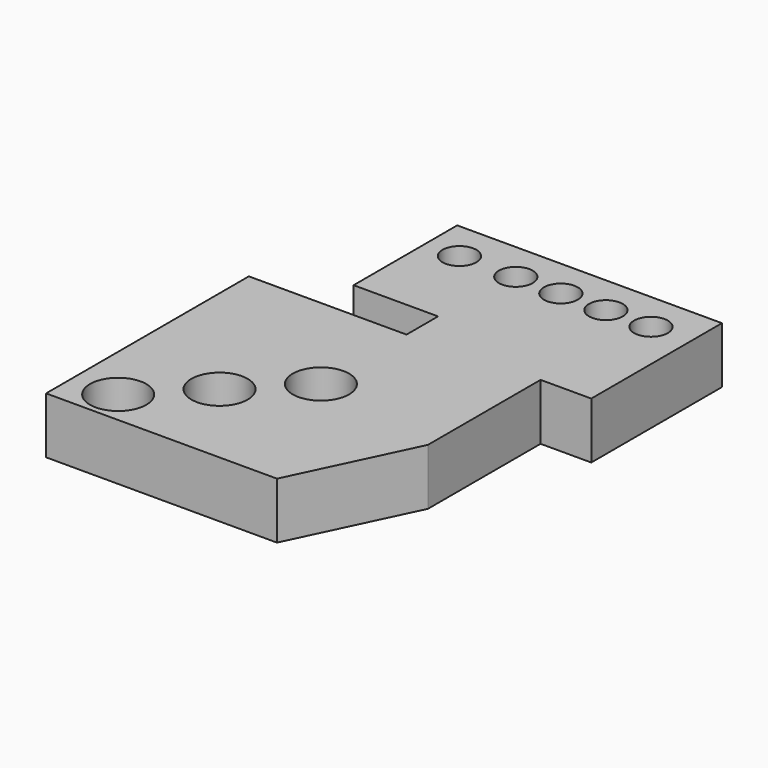
from build123d import *

# Parameters (mm, degrees)
F0_R     = 12.5
F0_R_2   = 7.5
F1_DEPTH = 25


with BuildPart() as f1:
    # F0 (on Top) → F1 (new body)
    with BuildSketch(Plane.XY):
        Polygon((-38.652687, -37.03886), (-38.652687, -52.03886), (-18.652687, -52.03886), (6.347313, -52.03886), (31.347313, -52.03886), (63.847313, -52.03886), (88.847313, 0.46114), (88.847313, 62.96114), (111.347313, 62.96114), (111.347313, 117.96114), (111.347313, 135.46114), (-6.152687, 135.46114), (-6.152687, 77.96114), (31.347313, 77.96114), (31.347313, 60.46114), (-38.652687, 60.46114), (-38.652687, 12.96114), (-38.652687, -12.03886), align=None)
        with Locations((-18.652687, -37.03886)):
            Circle(F0_R, mode=Mode.SUBTRACT)
        with Locations((6.347313, -12.03886)):
            Circle(F0_R, mode=Mode.SUBTRACT)
        with Locations((31.347313, 12.96114)):
            Circle(F0_R, mode=Mode.SUBTRACT)
        with Locations((8.847313, 117.96114)):
            Circle(F0_R_2, mode=Mode.SUBTRACT)
        with Locations((33.847313, 117.96114)):
            Circle(F0_R_2, mode=Mode.SUBTRACT)
        with Locations((53.847313, 117.96114)):
            Circle(F0_R_2, mode=Mode.SUBTRACT)
        with Locations((73.847313, 117.96114)):
            Circle(F0_R_2, mode=Mode.SUBTRACT)
        with Locations((93.847313, 117.96114)):
            Circle(F0_R_2, mode=Mode.SUBTRACT)
    extrude(amount=F1_DEPTH)


solid = f1.part
